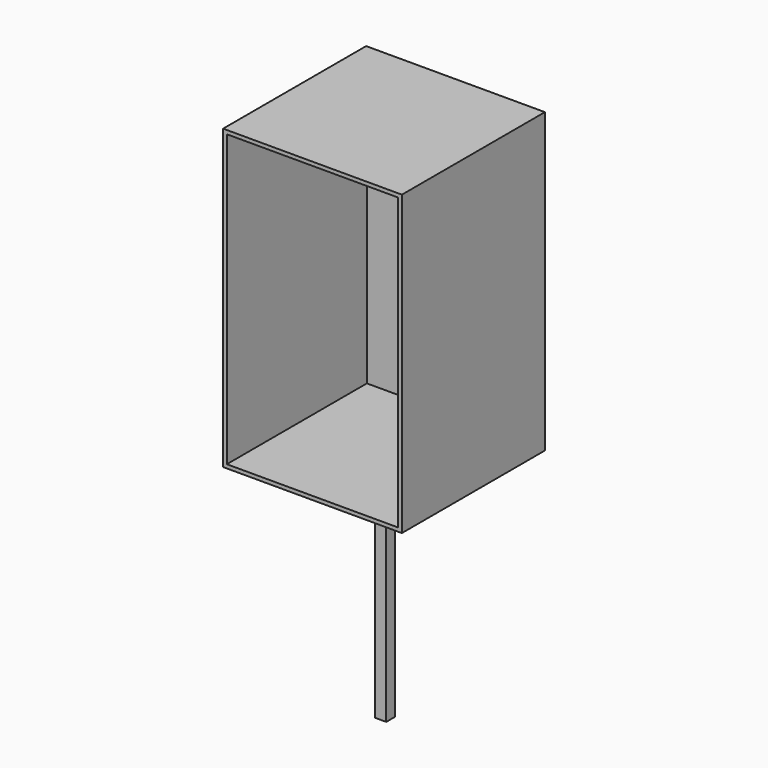
from build123d import *

# Parameters (mm, degrees)
F0_W     = 240
F0_H     = 400
F1_DEPTH = 240
F2_T     = -5
F3_W     = 15
F3_H     = 15
F4_DEPTH = 300


with BuildPart() as f1:
    # F0 (on Front) → F1 (new body)
    with BuildSketch(Plane.XZ):
        with Locations((-120, 200)):
            Rectangle(F0_W, F0_H)
    extrude(amount=-F1_DEPTH)

    # F2
    f2_openings = [f1.faces().sort_by_distance(p)[0] for p in [
        (-120, 0, 200),
    ]]
    offset(amount=F2_T, openings=f2_openings)


with BuildPart() as f4:
    # F3 (on Top) → F4 (new body)
    with BuildSketch(Plane.XY):
        with Locations((-112.5, 112.5)):
            Rectangle(F3_W, F3_H)
    extrude(amount=-F4_DEPTH)


solid = Compound([f1.part, f4.part])
